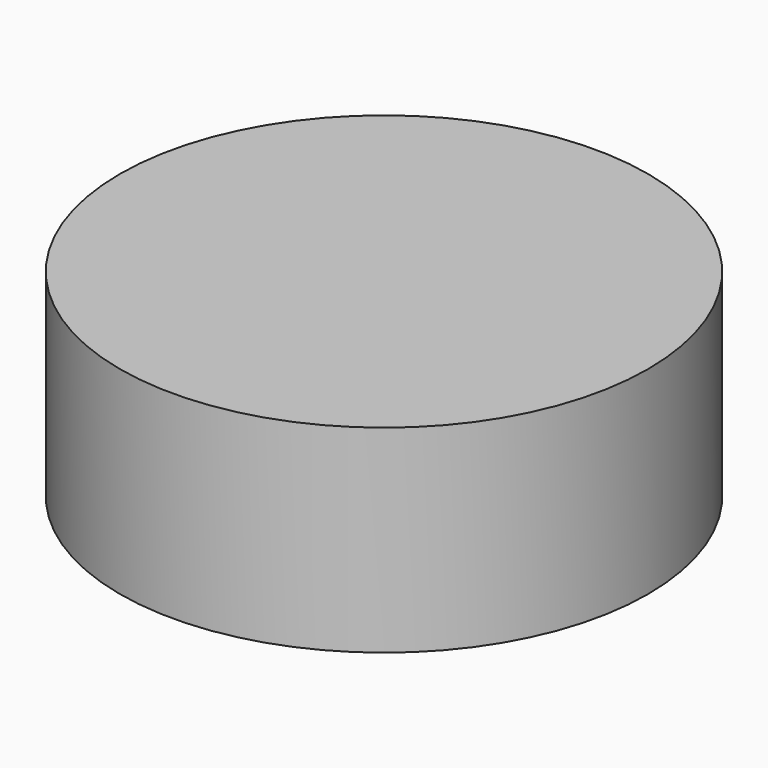
from build123d import *

# Parameters (mm, degrees)
SKETCH001_R  = 40
PAD001_DEPTH = 30


with BuildPart() as part:
    # Sketch001 → Pad001 (new body)
    with BuildSketch(Plane.XY):
        Circle(SKETCH001_R)
    extrude(amount=PAD001_DEPTH)


solid = part.part
